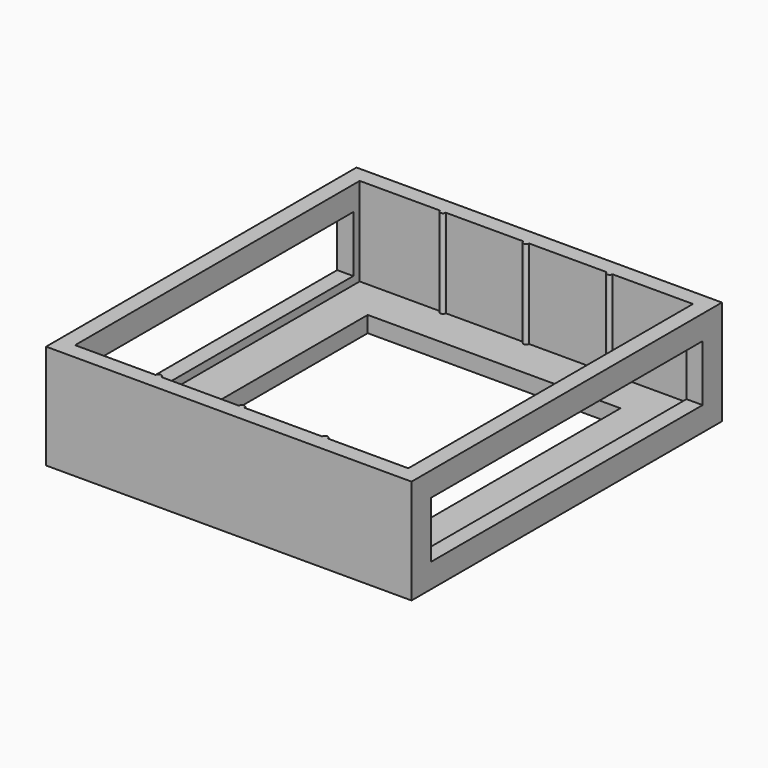
from build123d import *

# Parameters (mm, degrees)
F0_W     = 45.4
F0_H     = 48.2
F0_W_2   = 31.4
F0_H_2   = 34.2
F1_DEPTH = 2
F2_DEPTH = 13
F3_DEPTH = 13
F5_W     = 42.2
F5_H     = 7
F6_DEPTH = 80


with BuildPart() as f1:
    # F0 (on Top) → F1 (new body)
    with BuildSketch(Plane.XY):
        Rectangle(F0_W, F0_H)
        Polygon((-20.7, -22.1), (-20.7, 22.1), (-10.7, 22.1), (-10, 22.1), (-0.35, 22.1), (0.35, 22.1), (10, 22.1), (10.7, 22.1), (20.7, 22.1), (20.7, -22.1), (10.7, -22.1), (10, -22.1), (0.35, -22.1), (-0.35, -22.1), (-10, -22.1), (-10.7, -22.1), align=None, mode=Mode.SUBTRACT)
        with BuildLine():
            Line((-10.7, 22.1), (-20.7, 22.1))
            Line((-20.7, 22.1), (-20.7, -22.1))
            Line((-20.7, -22.1), (-10.7, -22.1))
            ThreePointArc((-10.7, -22.1), (-10.35, -21.75), (-10, -22.1))
            Line((-10, -22.1), (-0.35, -22.1))
            ThreePointArc((-0.35, -22.1), (0, -21.75), (0.35, -22.1))
            Line((0.35, -22.1), (10, -22.1))
            ThreePointArc((10, -22.1), (10.35, -21.75), (10.7, -22.1))
            Line((10.7, -22.1), (20.7, -22.1))
            Line((20.7, -22.1), (20.7, 22.1))
            Line((20.7, 22.1), (10.7, 22.1))
            ThreePointArc((10.7, 22.1), (10.35, 21.75), (10, 22.1))
            Line((10, 22.1), (0.35, 22.1))
            ThreePointArc((0.35, 22.1), (0, 21.75), (-0.35, 22.1))
            Line((-0.35, 22.1), (-10, 22.1))
            ThreePointArc((-10, 22.1), (-10.35, 21.75), (-10.7, 22.1))
        make_face()
        Rectangle(F0_W_2, F0_H_2, mode=Mode.SUBTRACT)
    extrude(amount=F1_DEPTH)

    # F0 (on Top) → F2 (join)
    with BuildSketch(Plane.XY):
        Rectangle(F0_W, F0_H)
        Polygon((-20.7, -22.1), (-20.7, 22.1), (-10.7, 22.1), (-10, 22.1), (-0.35, 22.1), (0.35, 22.1), (10, 22.1), (10.7, 22.1), (20.7, 22.1), (20.7, -22.1), (10.7, -22.1), (10, -22.1), (0.35, -22.1), (-0.35, -22.1), (-10, -22.1), (-10.7, -22.1), align=None, mode=Mode.SUBTRACT)
    extrude(amount=F2_DEPTH)

    # F0 (on Top) → F3 (join)
    with BuildSketch(Plane.XY):
        with BuildLine():
            Line((-10, 22.1), (-10.7, 22.1))
            ThreePointArc((-10.7, 22.1), (-10.35, 21.75), (-10, 22.1))
        make_face()
        with BuildLine():
            Line((0.35, 22.1), (-0.35, 22.1))
            ThreePointArc((-0.35, 22.1), (0, 21.75), (0.35, 22.1))
        make_face()
        with BuildLine():
            Line((10.7, 22.1), (10, 22.1))
            ThreePointArc((10, 22.1), (10.35, 21.75), (10.7, 22.1))
        make_face()
        with BuildLine():
            ThreePointArc((-10, -22.1), (-10.35, -21.75), (-10.7, -22.1))
            Line((-10.7, -22.1), (-10, -22.1))
        make_face()
        with BuildLine():
            ThreePointArc((0.35, -22.1), (0, -21.75), (-0.35, -22.1))
            Line((-0.35, -22.1), (0.35, -22.1))
        make_face()
        with BuildLine():
            ThreePointArc((10.7, -22.1), (10.35, -21.75), (10, -22.1))
            Line((10, -22.1), (10.7, -22.1))
        make_face()
    extrude(amount=F3_DEPTH)

    # F5 (on face) → F6 (cut)
    with BuildSketch(Plane.YZ.offset(22.7)):
        with Locations((0, 6.5)):
            Rectangle(F5_W, F5_H)
    extrude(amount=-F6_DEPTH, mode=Mode.SUBTRACT)


solid = f1.part
